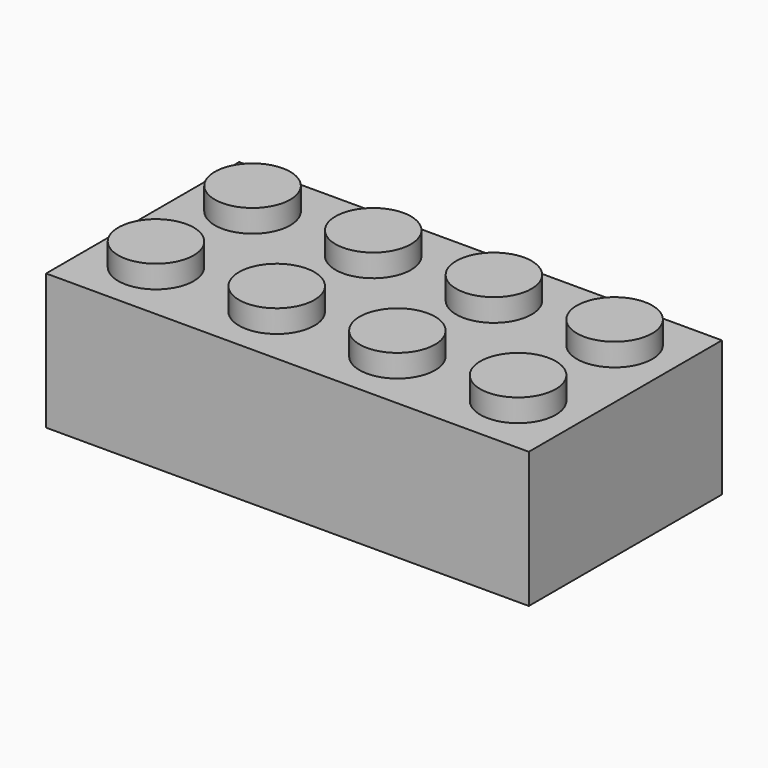
from build123d import *

# Parameters (mm, degrees)
F0_W     = 32
F0_H     = 16
F1_DEPTH = 9
F2_R     = 2.5
F3_DEPTH = 1.5
F4_W     = 29
F4_H     = 13
F5_DEPTH = 7.5
F6_R     = 3
F7_DEPTH = 7.5
F8_R     = 2.25
F9_DEPTH = 7.5


with BuildPart() as f1:
    # F0 (on Top) → F1 (new body)
    with BuildSketch(Plane.XY):
        with Locations((16, 8)):
            Rectangle(F0_W, F0_H)
    extrude(amount=F1_DEPTH)

    # F2 (on face) → F3 (join)
    with BuildSketch(Plane.XY.offset(9)):
        with Locations((4, 4.107877)):
            Circle(F2_R)
        with Locations((4, 12.107877)):
            Circle(F2_R)
        with Locations((12, 12.107877)):
            Circle(F2_R)
        with Locations((12, 4.107877)):
            Circle(F2_R)
        with Locations((20, 12.107877)):
            Circle(F2_R)
        with Locations((20, 4.107877)):
            Circle(F2_R)
        with Locations((28, 4.107877)):
            Circle(F2_R)
        with Locations((28, 12.107877)):
            Circle(F2_R)
    extrude(amount=F3_DEPTH)

    # F4 (on face) → F5 (cut)
    with BuildSketch(Plane(origin=(0, 0, 0), x_dir=(1, 0, 0), z_dir=(0, 0, -1))):
        with Locations((16, -8)):
            Rectangle(F4_W, F4_H)
        with Locations((16, -8)):
            Rectangle(F4_W, F4_H)
    extrude(amount=-F5_DEPTH, mode=Mode.SUBTRACT)

    # F6 (on face) → F7 (join)
    with BuildSketch(Plane(origin=(0, 0, 7.5), x_dir=(1, 0, 0), z_dir=(0, 0, -1))):
        with Locations((8, -8)):
            Circle(F6_R)
        with Locations((16, -8)):
            Circle(F6_R)
        with Locations((24, -8)):
            Circle(F6_R)
    extrude(amount=F7_DEPTH)

    # F8 (on face) → F9 (cut)
    with BuildSketch(Plane(origin=(0, 0, 0), x_dir=(1, 0, 0), z_dir=(0, 0, -1))):
        with Locations((8, -8)):
            Circle(F8_R)
        with Locations((16, -8)):
            Circle(F8_R)
        with Locations((24, -8)):
            Circle(F8_R)
    extrude(amount=-F9_DEPTH, mode=Mode.SUBTRACT)


solid = f1.part
